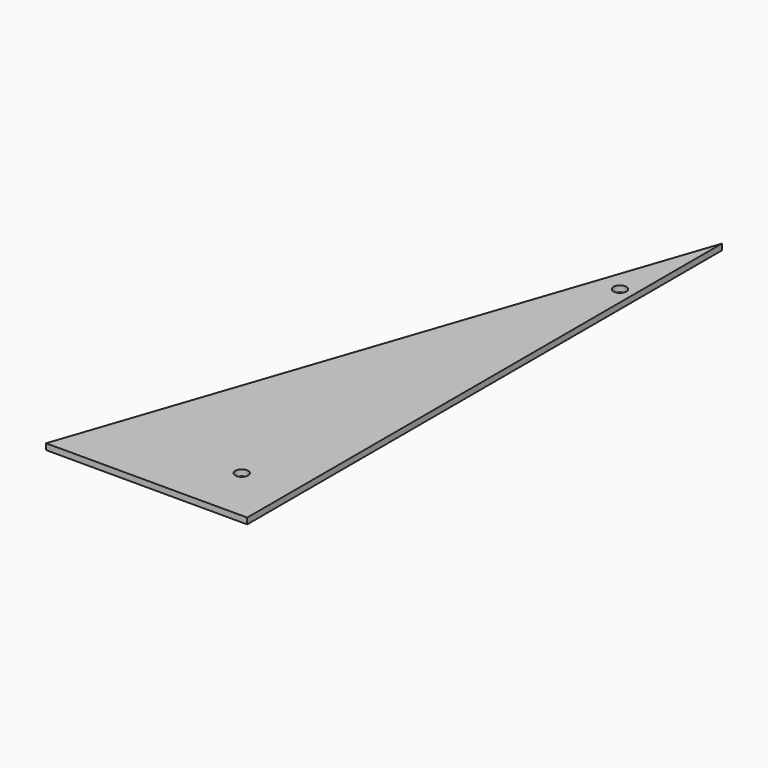
from build123d import *

# Parameters (mm, degrees)
F1_DEPTH = 1.524
F2_R     = 1.6129
F3_DEPTH = 25.4
F4_DEPTH = 39.37


with BuildPart() as f1:
    # F0 (on Top) → F1 (new body)
    with BuildSketch(Plane.XY):
        Polygon((-25.4, -74.93), (25.4, -74.93), (25.4, 74.93), align=None)
    extrude(amount=F1_DEPTH)

    # F2 (on face) → F3 (cut)
    with BuildSketch(Plane.XY.offset(1.524)):
        with Locations((21.858884, 47.176842)):
            Circle(F2_R)
        with Locations((12.7, -60.773158)):
            Circle(F2_R)
    extrude(amount=-F3_DEPTH, mode=Mode.SUBTRACT)

    # F2 (on face) → F4 (cut)
    with BuildSketch(Plane.XY.offset(1.524)):
        with Locations((21.858884, 47.176842)):
            Circle(F2_R)
        with Locations((12.7, -60.773158)):
            Circle(F2_R)
    extrude(amount=F4_DEPTH, mode=Mode.SUBTRACT)


solid = f1.part
